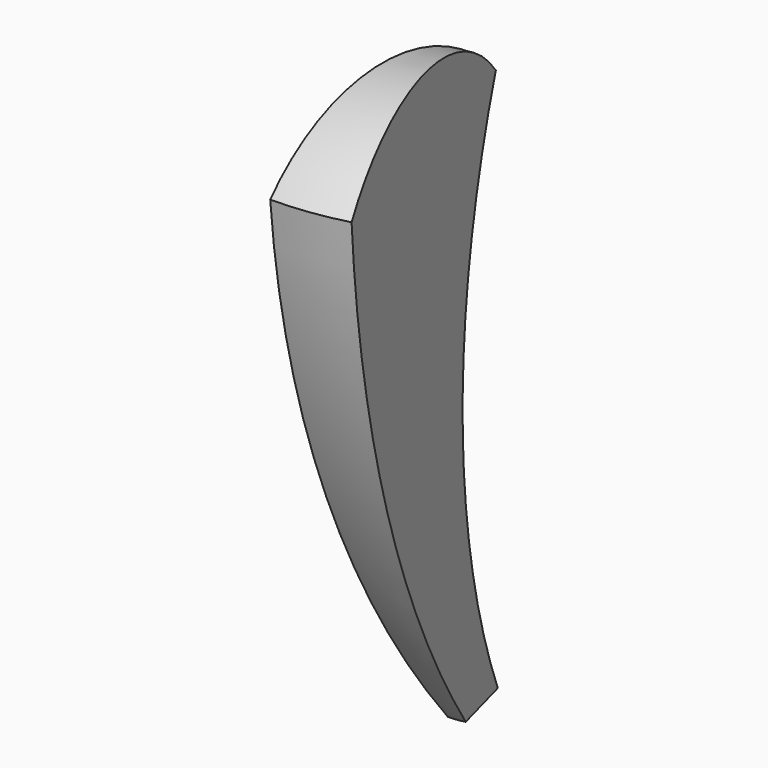
from build123d import *

# Parameters (mm, degrees)
F2_ANGLE = 15


with BuildPart() as f2:
    # F0 (on Right) → F2 (revolve)
    with BuildSketch(Plane.YZ):
        with BuildLine():
            ThreePointArc((-1.5584421286, 222.25), (-58.7084421286, 248.0484375242), (-115.8584421286, 222.25))
            ThreePointArc((-115.8584421286, 222.25), (-87.4061850656, 104.296572431), (-25.4, 0))
            Line((-25.4, 0), (0, 0))
            ThreePointArc((0, 0), (-27.890979755, 110.9348892827), (-1.5584421286, 222.25))
        make_face()
    revolve(axis=Axis((0, 0, 63.5), (0, 0, 1)), revolution_arc=F2_ANGLE)


solid = f2.part
